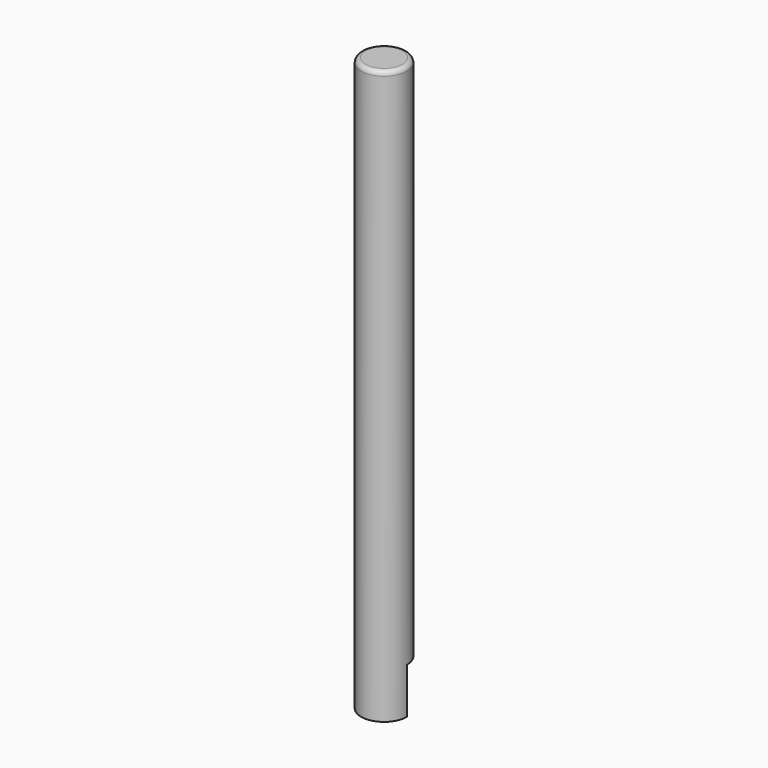
from build123d import *

# Parameters (mm, degrees)
F0_R     = 25.4
F1_DEPTH = 635
F2_W     = 63.5
F2_H     = 50.8
F3_DEPTH = 25.4
F4_R     = 5.08


with BuildPart() as f1:
    # F0 (on Top) → F1 (new body)
    with BuildSketch(Plane.XY):
        Circle(F0_R)
    extrude(amount=F1_DEPTH)

    # F2 (on Front) → F3 (cut)
    with BuildSketch(Plane.XZ):
        with Locations((0.1835199598, 25.4)):
            Rectangle(F2_W, F2_H)
    extrude(amount=-F3_DEPTH, mode=Mode.SUBTRACT)

    # F4
    f4_edges = [f1.edges().sort_by_distance(p)[0] for p in [
        (-25.4, 0, 635),
    ]]
    fillet(f4_edges, radius=F4_R)


solid = f1.part
